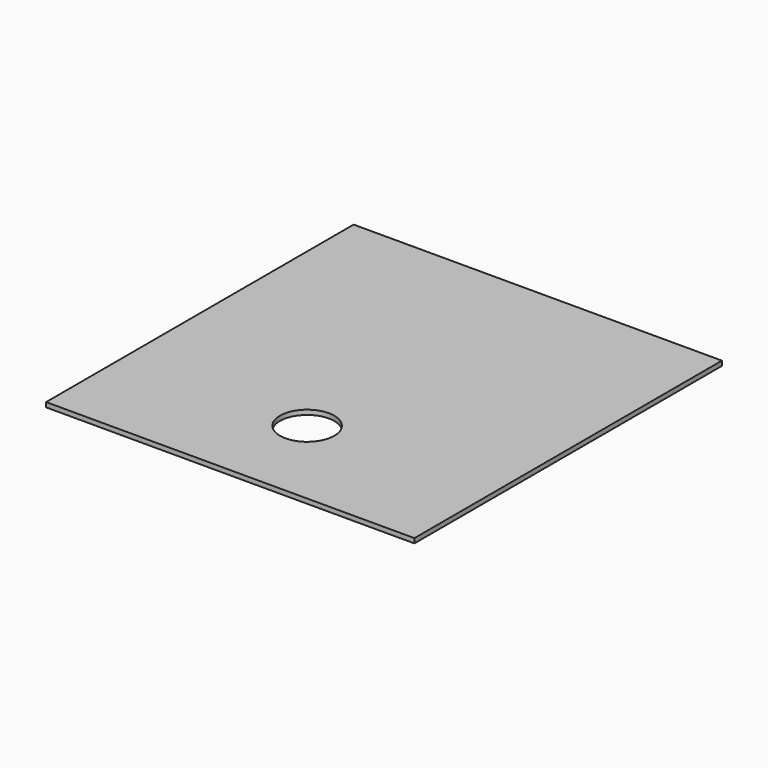
from build123d import *

# Parameters (mm, degrees)
SKETCH_W      = 473.075
SKETCH_H      = 493.7252
SKETCH_R      = 34.925
EXTRUDE_DEPTH = 5.9944


with BuildPart() as part:
    # Sketch → Extrude (new body)
    with BuildSketch(Plane.XY.offset(762)):
        with Locations((236.5375, 246.8626)):
            Rectangle(SKETCH_W, SKETCH_H)
        with Locations((236.5502, 123.4186)):
            Circle(SKETCH_R, mode=Mode.SUBTRACT)
    extrude(amount=EXTRUDE_DEPTH)


solid = part.part
